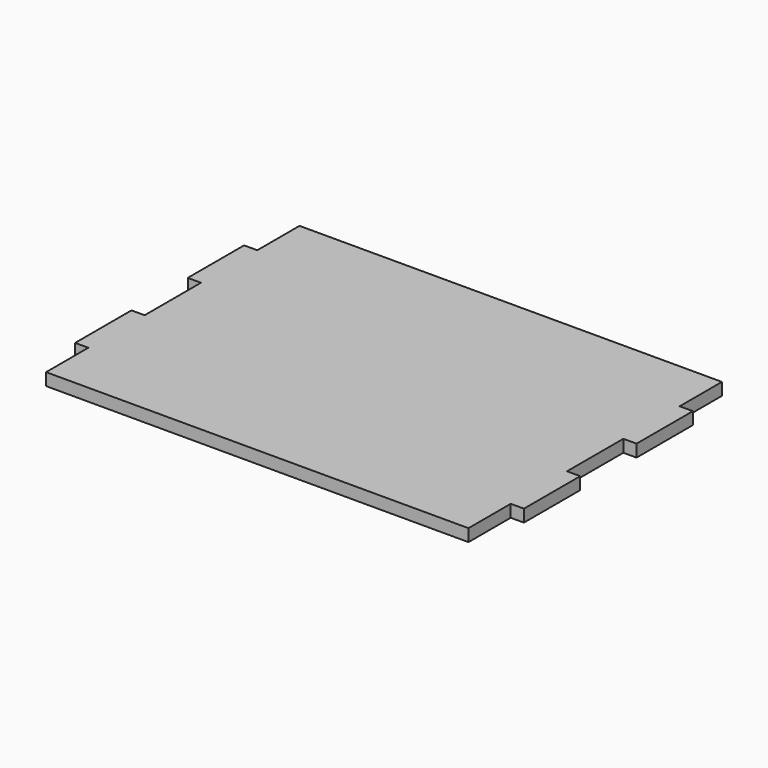
from build123d import *

# Parameters (mm, degrees)
F0_W     = 609.6
F0_H     = 76.2
F0_H_2   = 101.6
F0_W_2   = 19.05
F1_DEPTH = 17.78


with BuildPart() as f1:
    # F0 (on Top) → F1 (new body)
    with BuildSketch(Plane.XY):
        with Locations((304.8, -38.1)):
            Rectangle(F0_W, F0_H)
        with Locations((304.8, -228.6)):
            Rectangle(F0_W, F0_H_2)
        with Locations((304.8, -330.2)):
            Rectangle(F0_W, F0_H_2)
        with Locations((304.8, -419.1)):
            Rectangle(F0_W, F0_H)
        with Locations((-9.525, -330.2)):
            Rectangle(F0_W_2, F0_H_2)
        with Locations((-9.525, -127)):
            Rectangle(F0_W_2, F0_H_2)
        with Locations((304.8, -127)):
            Rectangle(F0_W, F0_H_2)
        with Locations((619.125, -127)):
            Rectangle(F0_W_2, F0_H_2)
        with Locations((619.125, -330.2)):
            Rectangle(F0_W_2, F0_H_2)
    extrude(amount=F1_DEPTH)


solid = f1.part
